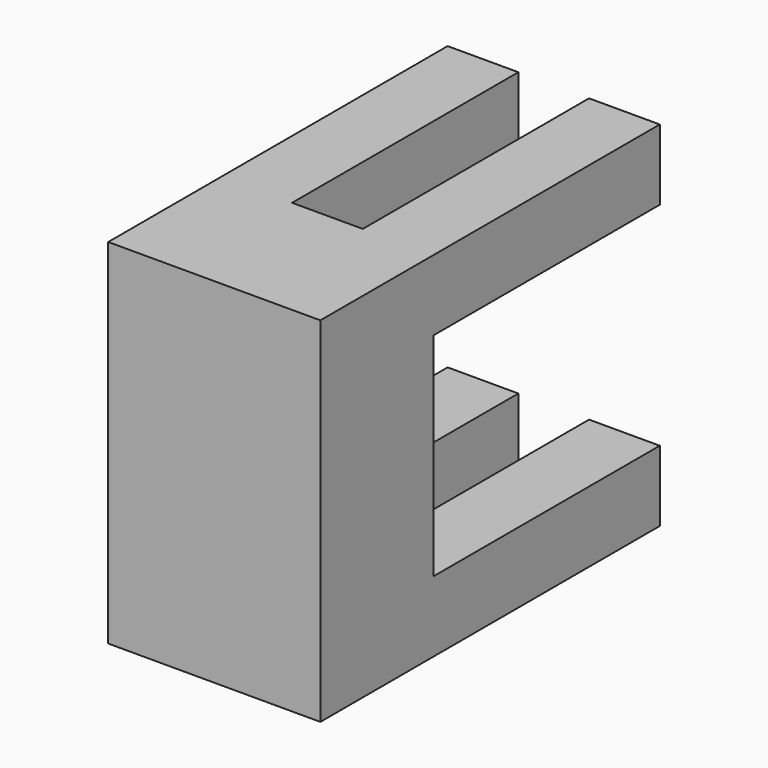
from build123d import *

# Parameters (mm, degrees)
F0_W     = 76.2
F0_H     = 127
F1_DEPTH = 50.8
F2_W     = 25.4
F2_H     = 25.4
F3_DEPTH = 101.6
F4_DEPTH = 101.6


with BuildPart() as f1:
    # F0 (on Front) → F1 (new body)
    with BuildSketch(Plane.XZ):
        Rectangle(F0_W, F0_H)
    extrude(amount=F1_DEPTH)

    # F2 (on face) → F3 (join)
    with BuildSketch(Plane(origin=(0, 0, 0), x_dir=(-1, 0, 0), z_dir=(0, 1, 0))):
        with Locations((-25.4, 50.8)):
            Rectangle(F2_W, F2_H)
    extrude(amount=F3_DEPTH)

    # F2 (on face) → F4 (join)
    with BuildSketch(Plane(origin=(0, 0, 0), x_dir=(-1, 0, 0), z_dir=(0, 1, 0))):
        with Locations((25.4, 50.8)):
            Rectangle(F2_W, F2_H)
        with Locations((-25.4, 50.8)):
            Rectangle(F2_W, F2_H)
        with Locations((25.4, -50.8)):
            Rectangle(F2_W, F2_H)
        with Locations((-25.4, -50.8)):
            Rectangle(F2_W, F2_H)
    extrude(amount=F4_DEPTH)


solid = f1.part
